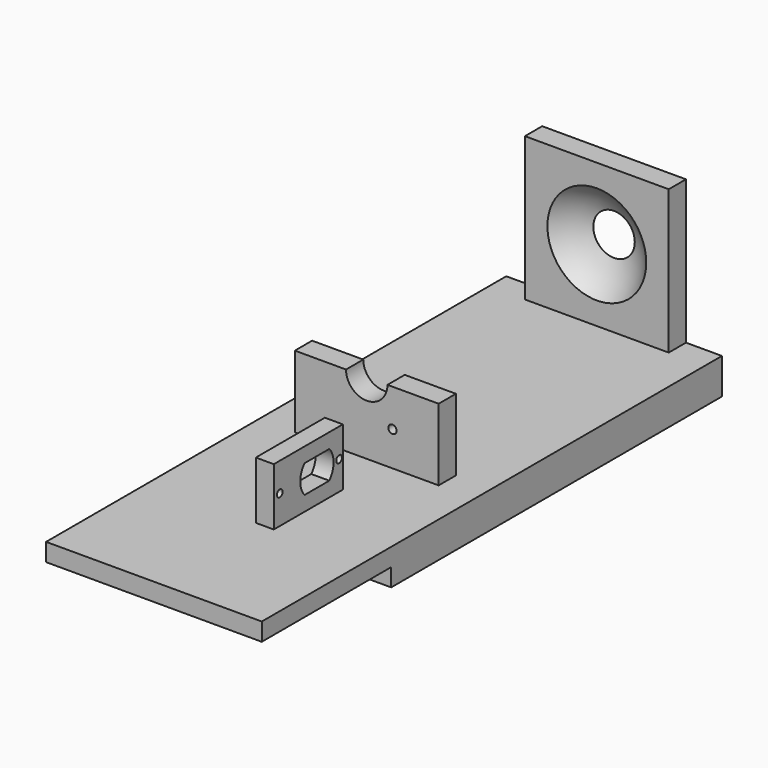
from build123d import *

# Parameters (mm, degrees)
F1_DEPTH  = 38.1
F0_W      = 30.48
F0_H      = 20.32
F0_R      = 1.27
F2_DEPTH  = 6.35
F0_W_2    = 7.62
F0_H_2    = 25.4
F3_DEPTH  = 25.4
F0_H_3    = 50.8
F4_DEPTH  = 25.4
F7_R      = 7.3205
F8_DEPTH  = 109.221
F9_R      = 1.464692
F10_DEPTH = 25.4


with BuildPart() as f1:
    # F0 (on Right) → F1 (new body, symmetric)
    with BuildSketch(Plane.YZ):
        Polygon((-56.604175, 6.311384), (-101.6, 6.311384), (-101.6, 0), (-44.45, 0), (-44.45, -6.311384), (101.6, -6.311384), (101.6, 6.311384), (93.98, 6.311384), (0, 6.311384), (-7.62, 6.311384), (-26.124175, 6.311384), align=None)
    extrude(amount=F1_DEPTH, both=True)

    # F0 (on Right) → F2 (join)
    with BuildSketch(Plane.YZ):
        with Locations((-41.364175, 16.471384)):
            Rectangle(F0_W, F0_H)
        with Locations((-53.956132, 16.471384)):
            Circle(F0_R, mode=Mode.SUBTRACT)
        with BuildLine():
            ThreePointArc((-32.089956, 21.411047), (-30.188175, 16.471384), (-32.089956, 11.531721))
            Line((-32.089956, 11.531721), (-43.018393, 11.531721))
            ThreePointArc((-43.018393, 11.531721), (-44.920175, 16.471384), (-43.018393, 21.411047))
            Line((-43.018393, 21.411047), (-32.089956, 21.411047))
        make_face(mode=Mode.SUBTRACT)
        with Locations((-27.746813, 16.471384)):
            Circle(F0_R, mode=Mode.SUBTRACT)
    extrude(amount=F2_DEPTH)

    # F0 (on Right) → F3 (join, symmetric)
    with BuildSketch(Plane.YZ):
        with Locations((-3.81, 19.011384)):
            Rectangle(F0_W_2, F0_H_2)
    extrude(amount=F3_DEPTH, both=True)

    # F0 (on Right) → F4 (join, symmetric)
    with BuildSketch(Plane.YZ):
        with Locations((97.79, 31.711384)):
            Rectangle(F0_W_2, F0_H_3)
    extrude(amount=F4_DEPTH, both=True)

    # F5 (on Right) → F6 (revolve, cut)
    with BuildSketch(Plane.YZ):
        with BuildLine():
            Line((81.28, 10.121384), (81.28, 53.301384))
            ThreePointArc((81.28, 53.301384), (59.69, 31.711384), (81.28, 10.121384))
        make_face()
    revolve(axis=Axis((0, 81.28, 31.711384), (0, 0, -1)), mode=Mode.SUBTRACT)

    # F7 (on face) → F8 (cut, through all)
    with BuildSketch(Plane.XZ.offset(7.62)):
        with Locations((0, 31.711384)):
            Circle(F7_R)
    extrude(amount=-F8_DEPTH, mode=Mode.SUBTRACT)

    # F9 (on face) → F10 (cut)
    with BuildSketch(Plane.XZ.offset(7.62)):
        with Locations((9.084395, 18.466871)):
            Circle(F9_R)
    extrude(amount=-F10_DEPTH, mode=Mode.SUBTRACT)


solid = f1.part
